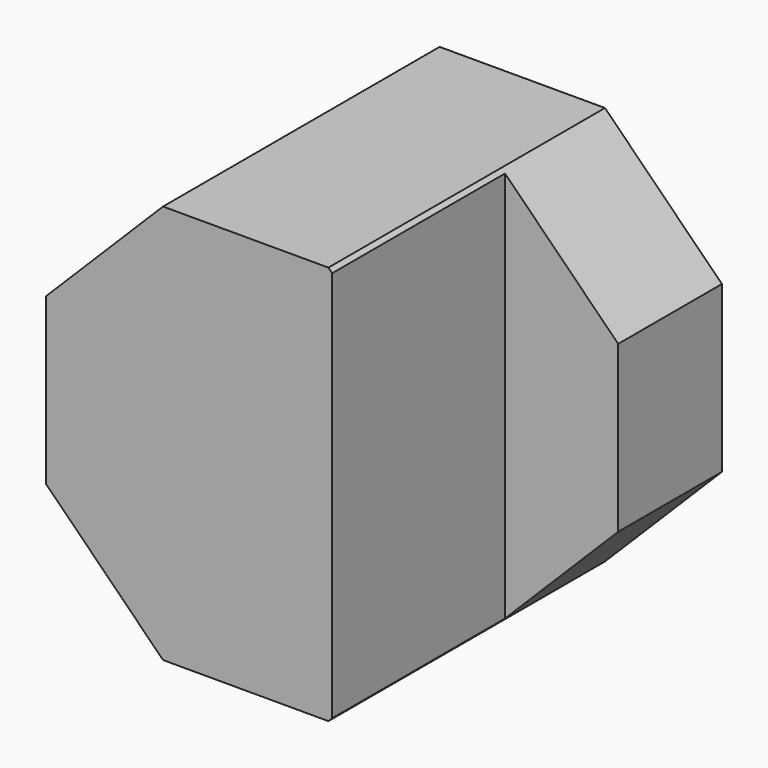
from build123d import *

# Parameters (mm, degrees)
BOX008_W         = 2
BOX008_H         = 2.5
BOX008_DEPTH     = 6
EXTRUDE004_DEPTH = 4


with BuildPart() as box008:
    # Box008 → Box008 (new body)
    with BuildSketch(Plane(origin=(1, 0, -0.5), x_dir=(1, 0, 0), z_dir=(0, 0, 1))):
        with Locations((1, 1.25)):
            Rectangle(BOX008_W, BOX008_H)
    extrude(amount=BOX008_DEPTH)


with BuildPart() as obj1:
    # Sketch002 → Extrude004 (new body)
    with BuildSketch(Plane.XZ):
        Polygon((2.309699, 1.35299), (2.309699, 3.266407), (0.956709, 4.619398), (-0.956709, 4.619398), (-2.309699, 3.266407), (-2.309699, 1.35299), (-0.956709, 0), (0.956709, 0), align=None)
    extrude(amount=-EXTRUDE004_DEPTH)

    # Cut: cut Box008
    add(box008.part, mode=Mode.SUBTRACT)


solid = obj1.part
